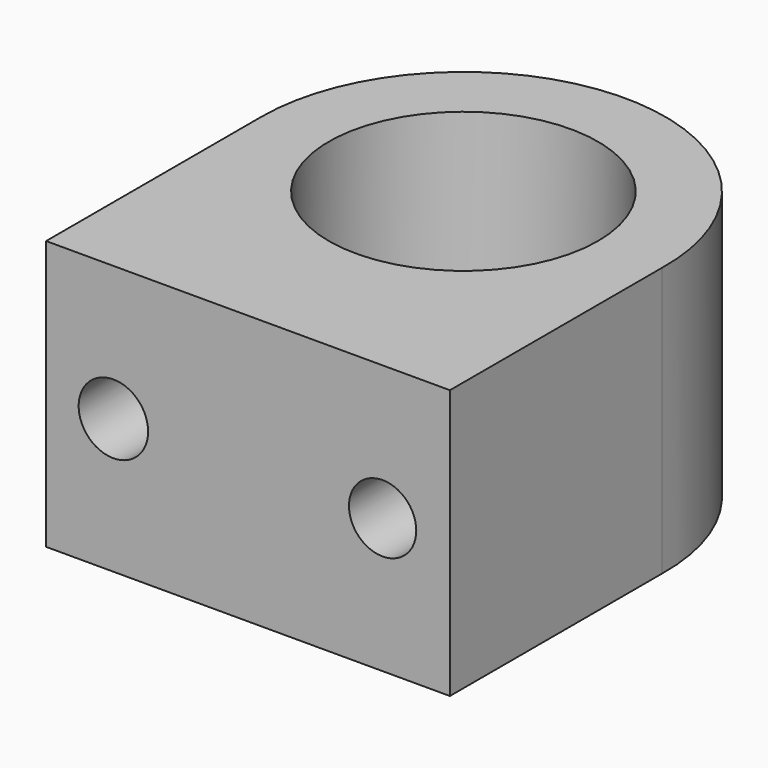
from build123d import *

# Parameters (mm, degrees)
F0_R     = 12.7
F1_DEPTH = 25.4
F2_R     = 3.2766
F2_R_2   = 3.175
F3_DEPTH = 12.7


with BuildPart() as f1:
    # F0 (on Top) → F1 (new body)
    with BuildSketch(Plane.XY):
        with BuildLine():
            Line((19.048172, -25.4), (19.048172, -0.373213))
            ThreePointArc((19.048172, -0.373213), (0.186616, 19.050914), (-19.051828, 0))
            Line((-19.051828, 0), (-19.051828, -25.4))
            Line((-19.051828, -25.4), (19.048172, -25.4))
        make_face()
        Circle(F0_R, mode=Mode.SUBTRACT)
    extrude(amount=F1_DEPTH)

    # F2 (on face) → F3 (cut)
    with BuildSketch(Plane.XZ.offset(25.4)):
        with Locations((-12.701828, 12.7)):
            Circle(F2_R)
        with Locations((12.698172, 12.7)):
            Circle(F2_R_2)
    extrude(amount=-F3_DEPTH, mode=Mode.SUBTRACT)


solid = f1.part
